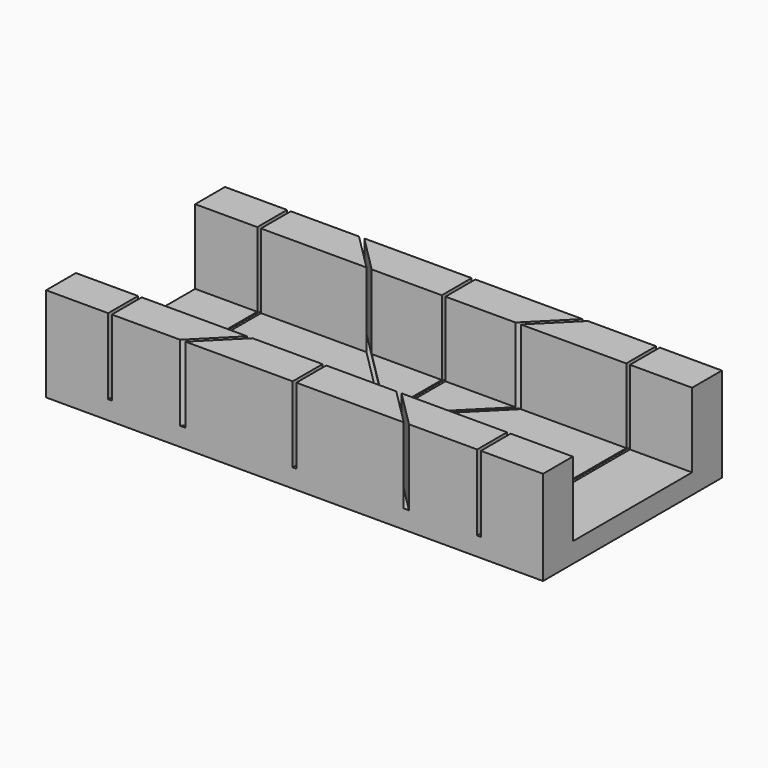
from build123d import *

# Parameters (mm, degrees)
F0_W     = 200
F0_H     = 90
F1_DEPTH = 8
F2_W     = 200
F2_H     = 15
F3_DEPTH = 30
F4_W     = 1.5
F4_H     = 126.118213
F4_H_2   = 132.641569
F5_DEPTH = 30.5


with BuildPart() as f1:
    # F0 (on Top) → F1 (new body)
    with BuildSketch(Plane.XY):
        Rectangle(F0_W, F0_H)
    extrude(amount=F1_DEPTH)

    # F2 (on face) → F3 (join)
    with BuildSketch(Plane.XY.offset(8)):
        with Locations((0, 37.5)):
            Rectangle(F2_W, F2_H)
        with Locations((0, -37.5)):
            Rectangle(F2_W, F2_H)
    extrude(amount=F3_DEPTH)

    # F4 (on face) → F5 (cut)
    with BuildSketch(Plane.XY.offset(38)):
        Polygon((0.75, 60), (-0.75, 60), (-0.75, 1.81066), (0, 1.06066), (0.75, 1.81066), align=None)
        Polygon((0, 1.06066), (-0.75, 1.81066), (-47.126677, 48.187338), (-48.187338, 47.126677), (-1.06066, 0), (-47.126677, -46.066017), (-46.066017, -47.126677), (-0.75, -1.81066), (0, -1.06066), (0.75, -1.81066), (57.87868, -58.93934), (58.93934, -57.87868), (1.06066, 0), (60, 58.93934), (58.93934, 60), (0.75, 1.81066), align=None)
        Polygon((0, -1.06066), (-0.75, -1.81066), (-0.75, -70), (0.75, -70), (0.75, -1.81066), align=None)
        with Locations((-74.25, -3.795997)):
            Rectangle(F4_W, F4_H)
        with Locations((74.25, -6.622784)):
            Rectangle(F4_W, F4_H_2)
    extrude(amount=-F5_DEPTH, mode=Mode.SUBTRACT)


solid = f1.part
